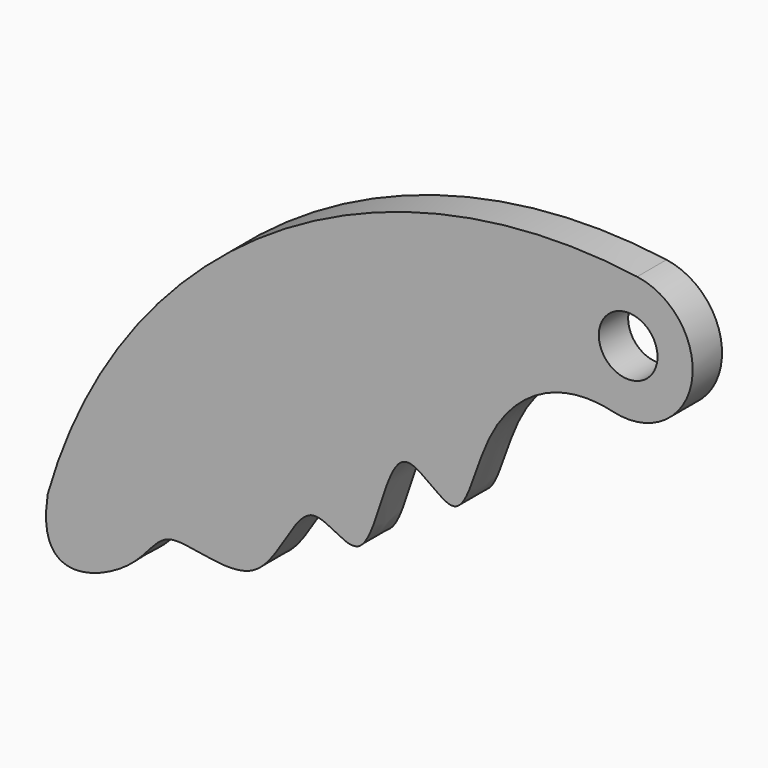
from build123d import *

# Parameters (mm, degrees)
F0_R     = 2.54
F1_DEPTH = 3.175
F2_SCALE = 0.8


with BuildPart() as f1:
    # F0 (on Front) → F1 (new body)
    with BuildSketch(Plane.XZ):
        with BuildLine():
            add(Edge.make_bspline(
                [(-44.2121134937, -25.7785934955), (-45.2991934478, -32.626548347), (-35.8990602452, -29.6313482751), (-34.5503850626, -24.1464582302), (-25.1780013438, -28.5881270821), (-22.2206855066, -17.1530487523), (-16.0792325939, -24.3381725832), (-14.6675608044, -9.5174107186), (-8.0774299822, -18.3135018298), (-6.8111066816, -6.9268812913), (-0.0326734387, -2.4536455827), (4.7274252176, -3.5959737622)],
                knots=[0, 0, 0, 0, 0.1146989998, 0.2122130482, 0.3245679683, 0.4415830442, 0.5271380844, 0.6505369248, 0.7411917187, 0.8565007956, 1, 1, 1, 1], degree=3))
            ThreePointArc((4.7274252176, -3.5959737622), (11.5212174373, 0.7947936435), (6.8109595573, 7.3711088609))
            ThreePointArc((6.8109595573, 7.3711088609), (-24.9027625736, 0.3424842466), (-44.2121134937, -25.7785934955))
        make_face()
        with Locations((6.0314102005, 1.8377512184)):
            Circle(F0_R, mode=Mode.SUBTRACT)
    extrude(amount=F1_DEPTH)


with BuildPart() as f1_1:
    # F2: moved
    add(f1.part.scale(F2_SCALE))


solid = f1_1.part
